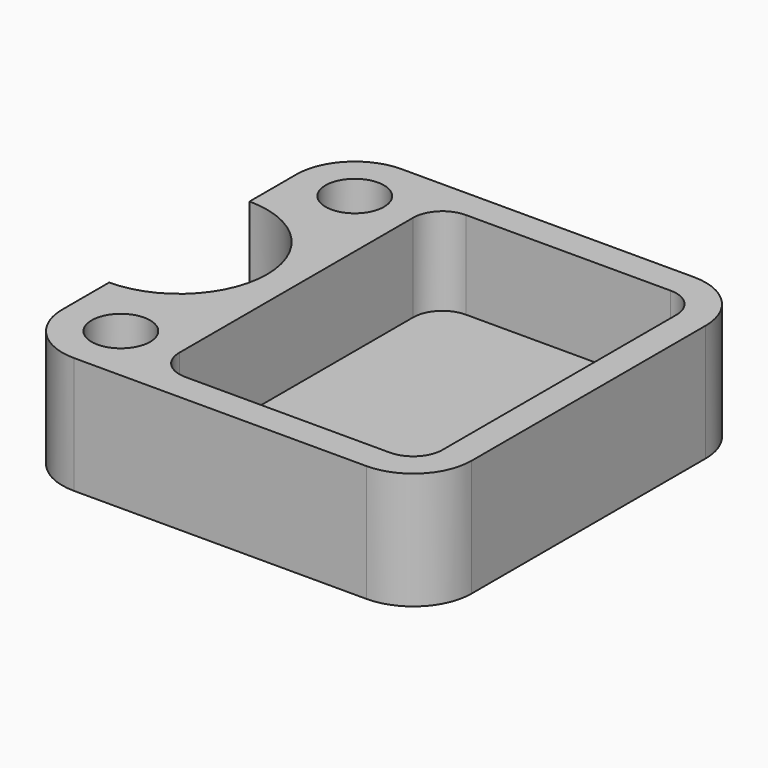
from build123d import *

# Parameters (mm, degrees)
F0_R     = 5
F1_DEPTH = 20
F2_DEPTH = 5


with BuildPart() as f1:
    # F0 (on Top) → F1 (new body)
    with BuildSketch(Plane.XY):
        with BuildLine():
            Line((-35, -15), (-35, -25))
            ThreePointArc((-35, -25), (-32.071068, -32.071068), (-25, -35))
            Line((-25, -35), (25, -35))
            ThreePointArc((25, -35), (32.071068, -32.071068), (35, -25))
            Line((35, -25), (35, 25))
            ThreePointArc((35, 25), (32.071068, 32.071068), (25, 35))
            Line((25, 35), (-25, 35))
            ThreePointArc((-25, 35), (-32.071068, 32.071068), (-35, 25))
            Line((-35, 25), (-35, 15))
            ThreePointArc((-35, 15), (-20, 0), (-35, -15))
        make_face()
        with Locations((-25, -25)):
            Circle(F0_R, mode=Mode.SUBTRACT)
        with Locations((-25, 25)):
            Circle(F0_R, mode=Mode.SUBTRACT)
        with BuildLine():
            Line((-15, -25), (-15, 25))
            ThreePointArc((-15, 25), (-13.53689, 28.53226), (-10.00463, 29.99537))
            Line((-10.00463, 29.99537), (25, 30))
            ThreePointArc((25, 30), (28.535534, 28.535534), (30, 25))
            Line((30, 25), (30, -25))
            ThreePointArc((30, -25), (28.535534, -28.535534), (25, -30))
            Line((25, -30), (-10.00463, -29.99537))
            ThreePointArc((-10.00463, -29.99537), (-13.53689, -28.53226), (-15, -25))
        make_face(mode=Mode.SUBTRACT)
    extrude(amount=F1_DEPTH)

    # F0 (on Top) → F2 (join)
    with BuildSketch(Plane.XY):
        with BuildLine():
            ThreePointArc((-10.00463, 29.99537), (-13.53689, 28.53226), (-15, 25))
            Line((-15, 25), (-15, -25))
            ThreePointArc((-15, -25), (-13.53689, -28.53226), (-10.00463, -29.99537))
            Line((-10.00463, -29.99537), (25, -30))
            ThreePointArc((25, -30), (28.535534, -28.535534), (30, -25))
            Line((30, -25), (30, 25))
            ThreePointArc((30, 25), (28.535534, 28.535534), (25, 30))
            Line((25, 30), (-10.00463, 29.99537))
        make_face()
    extrude(amount=F2_DEPTH)


solid = f1.part
